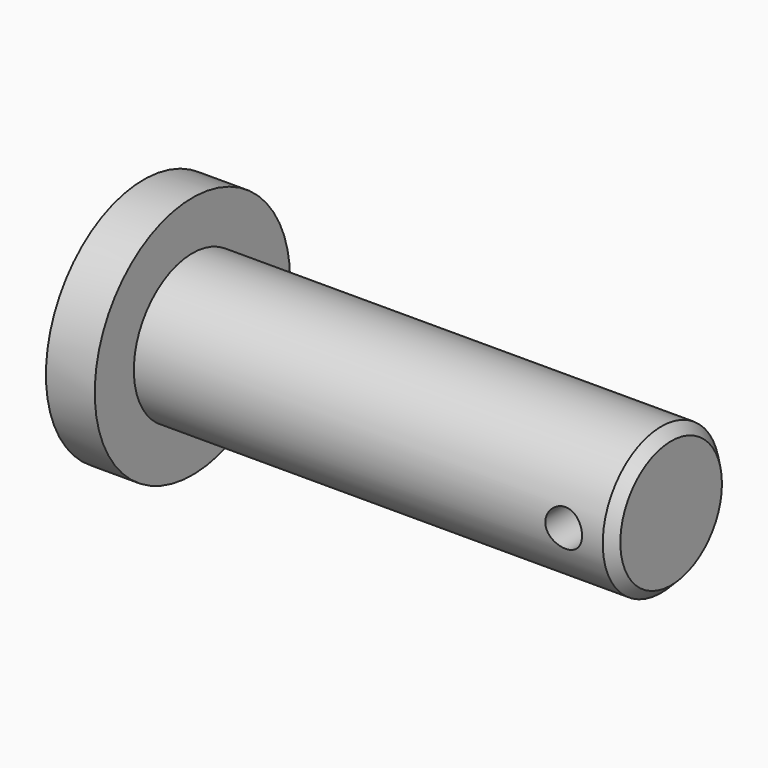
from build123d import *

# Parameters (mm, degrees)
F0_R     = 15.875
F1_DEPTH = 6.35
F2_R     = 9.525
F3_DEPTH = 62.23
F4_R     = 2.3876
F5_DEPTH = 12.7
F6_SIZE2 = 1.27
F6_SIZE  = 1.27


with BuildPart() as f1:
    # F0 (on Right) → F1 (new body)
    with BuildSketch(Plane.YZ):
        Circle(F0_R)
    extrude(amount=F1_DEPTH)

    # F2 (on face) → F3 (join)
    with BuildSketch(Plane.YZ.offset(6.35)):
        Circle(F2_R)
    extrude(amount=F3_DEPTH)

    # F4 (on Front) → F5 (cut, symmetric)
    with BuildSketch(Plane.XZ):
        with Locations((62.23, 0)):
            Circle(F4_R)
    extrude(amount=F5_DEPTH, both=True, mode=Mode.SUBTRACT)

    # F6
    f6_edges = [f1.edges().sort_by_distance(p)[0] for p in [
        (68.58, -9.525, 0),
    ]]
    chamfer(f6_edges, length=F6_SIZE, length2=F6_SIZE2)


solid = f1.part
